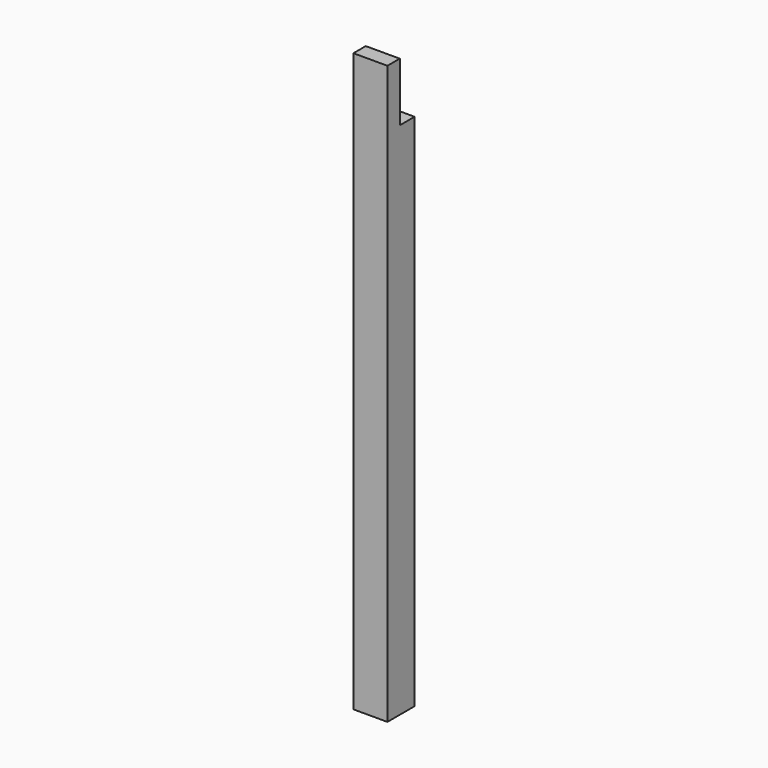
from build123d import *

# Parameters (mm, degrees)
F0_W     = 139.7
F0_H     = 139.7
F1_DEPTH = 2374.9
F2_W     = 76.2
F2_H     = 241.3
F3_DEPTH = 139.701


with BuildPart() as f1:
    # F0 (on Top) → F1 (new body)
    with BuildSketch(Plane.XY):
        with Locations((26.103751, -10.639483)):
            Rectangle(F0_W, F0_H)
    extrude(amount=F1_DEPTH)

    # F2 (on face) → F3 (cut, through all)
    with BuildSketch(Plane.YZ.offset(95.953751)):
        with Locations((21.110517, 2254.25)):
            Rectangle(F2_W, F2_H)
    extrude(amount=-F3_DEPTH, mode=Mode.SUBTRACT)


solid = f1.part
